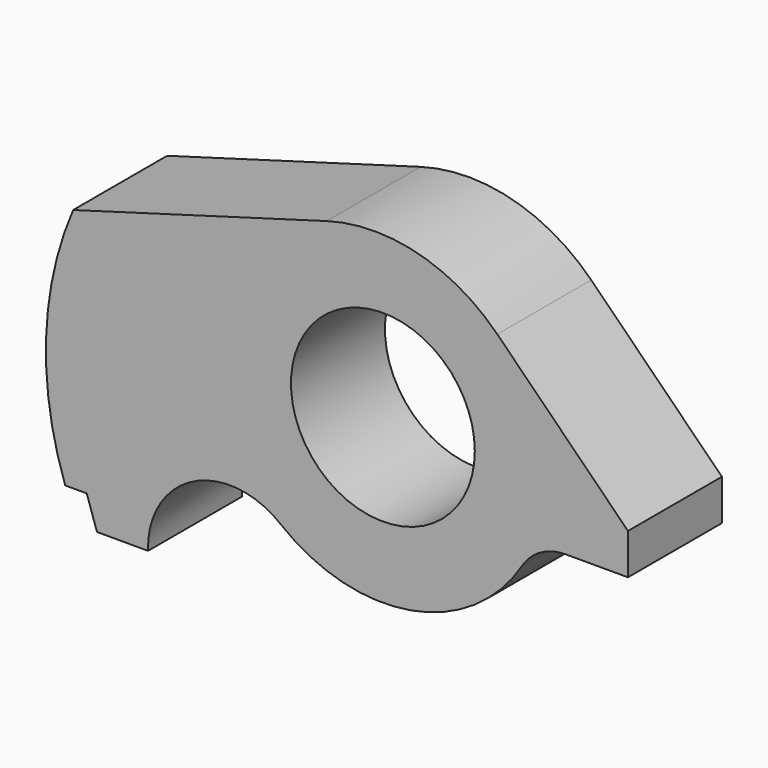
from build123d import *

# Parameters (mm, degrees)
F0_R     = 9
F1_DEPTH = 11.5


with BuildPart() as f1:
    # F0 (on Front) → F1 (new body)
    with BuildSketch(Plane.XZ):
        with BuildLine():
            Line((-21.034639, 38.424098), (-21.034639, 42.424098))
            Line((-21.034639, 42.424098), (-33.832912, 55.222371))
            ThreePointArc((-33.832912, 55.222371), (-41.597268, 59.660066), (-50.539563, 59.543005))
            Line((-50.539563, 59.543005), (-75.366141, 52.424098))
            ThreePointArc((-75.366141, 52.424098), (-78.017172, 40.497675), (-76.147338, 28.424098))
            Line((-76.147338, 28.424098), (-74.034639, 28.424098))
            Line((-74.034639, 28.424098), (-73.030853, 25.424098))
            Line((-73.030853, 25.424098), (-68.030249, 25.424098))
            ThreePointArc((-68.030249, 25.424098), (-63.617719, 32.841834), (-55.034639, 31.934102))
            ThreePointArc((-55.034639, 31.934102), (-42.293447, 28.660664), (-31.405273, 36.043146))
            ThreePointArc((-31.405273, 36.043146), (-29.585846, 37.788456), (-27.146095, 38.424098))
            Line((-27.146095, 38.424098), (-21.034639, 38.424098))
        make_face()
        with Locations((-45.034639, 44.424098)):
            Circle(F0_R, mode=Mode.SUBTRACT)
    extrude(amount=F1_DEPTH)


solid = f1.part
